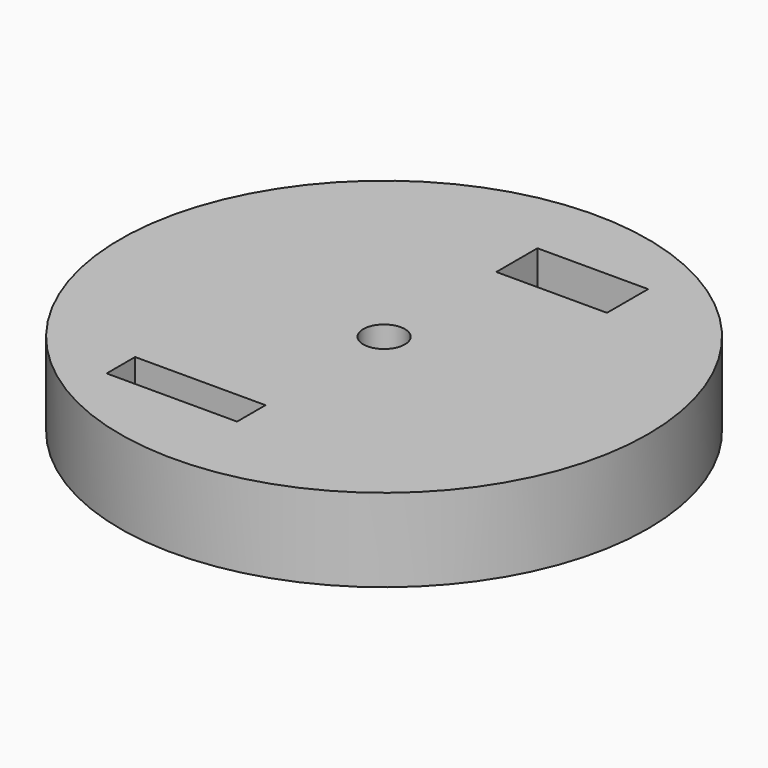
from build123d import *

# Parameters (mm, degrees)
F0_R     = 19.05
F0_W     = 9.412942
F0_H     = 2.567166
F0_R_2   = 1.5
F0_W_2   = 7.986738
F0_H_2   = 3.708128
F1_DEPTH = 6


with BuildPart() as f1:
    # F0 (on Top) → F1 (new body)
    with BuildSketch(Plane.XY):
        Circle(F0_R)
        with Locations((-4.706471, -11.980107)):
            Rectangle(F0_W, F0_H, mode=Mode.SUBTRACT)
        Circle(F0_R_2, mode=Mode.SUBTRACT)
        with Locations((3.993369, 11.980107)):
            Rectangle(F0_W_2, F0_H_2, mode=Mode.SUBTRACT)
    extrude(amount=F1_DEPTH)


solid = f1.part
